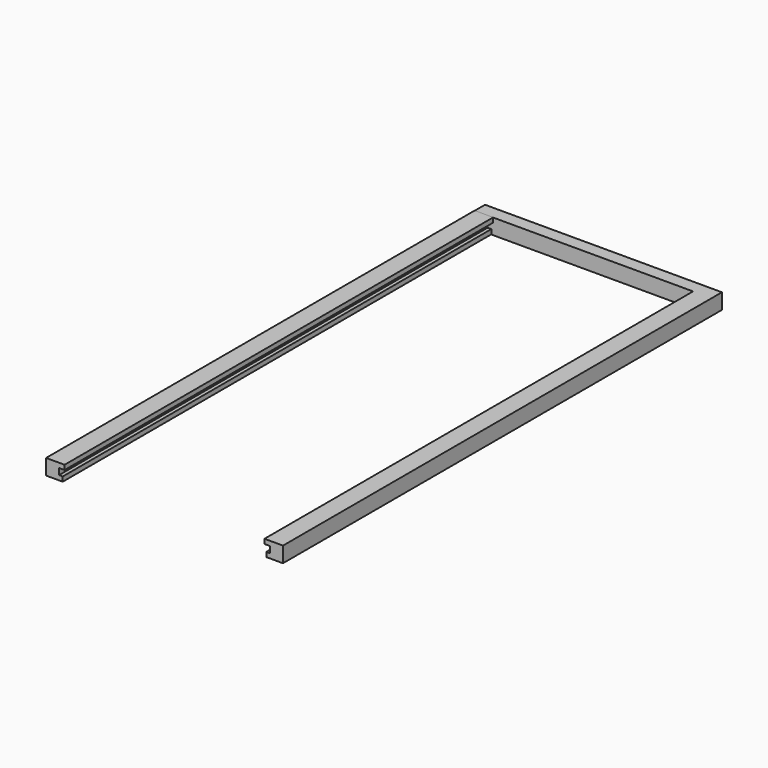
from build123d import *

# Parameters (mm, degrees)
F1_DEPTH = 289.46
F2_W     = 128
F2_H     = 8.4
F3_DEPTH = 7
F5_DEPTH = 289.46


with BuildPart() as f1:
    # F0 (on Front) → F1 (new body)
    with BuildSketch(Plane.XZ):
        Polygon((-47.436745, 38.990075), (-57.436745, 38.990075), (-57.436745, 36.490075), (-54.436745, 36.490075), (-54.436745, 33.090075), (-56.436745, 33.090075), (-56.436745, 30.590075), (-47.436745, 30.590075), align=None)
    extrude(amount=F1_DEPTH)

    # F2 (on Front) → F3 (join)
    with BuildSketch(Plane.XZ):
        with Locations((-111.436745, 34.790075)):
            Rectangle(F2_W, F2_H)
    extrude(amount=-F3_DEPTH)

    # F4 (on Front) → F5 (join)
    with BuildSketch(Plane.XZ):
        Polygon((-165.436745, 36.57085), (-165.436745, 39.07085), (-175.436745, 39.07085), (-175.436745, 30.67085), (-166.436745, 30.67085), (-166.436745, 33.17085), (-168.436745, 33.17085), (-168.436745, 36.57085), align=None)
    extrude(amount=F5_DEPTH)


solid = f1.part
